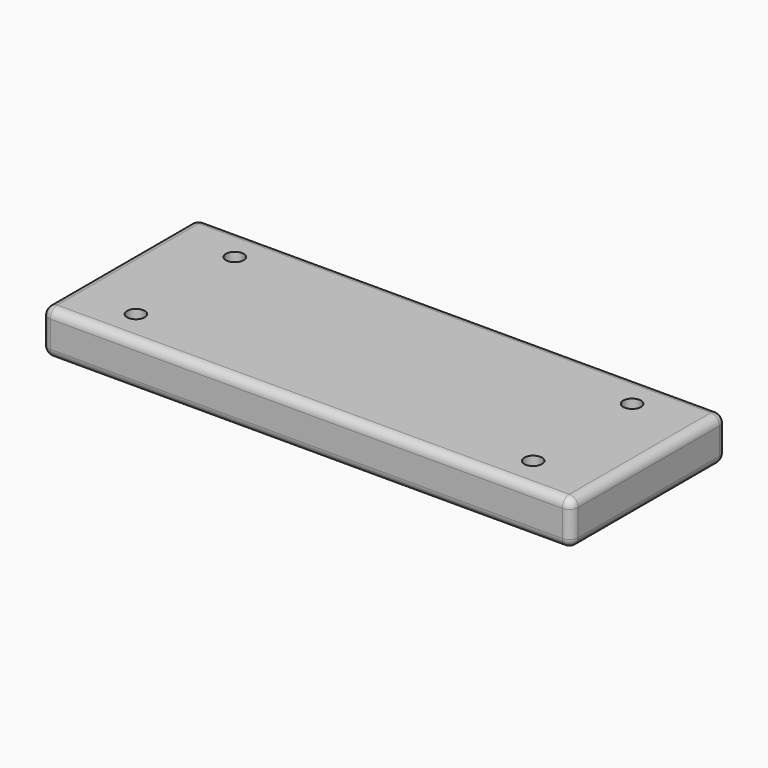
from build123d import *

# Parameters (mm, degrees)
F0_W     = 300
F0_H     = 110
F1_DEPTH = 25
F2_R     = 5
F3_DEPTH = 25.001
F4_R     = 5


with BuildPart() as f1:
    # F0 (on Top) → F1 (new body)
    with BuildSketch(Plane.XY):
        Rectangle(F0_W, F0_H)
    extrude(amount=F1_DEPTH)

    # F2 (on face) → F3 (cut, through all)
    with BuildSketch(Plane.XY.offset(25)):
        with Locations((-112.5, 35)):
            Circle(F2_R)
        with Locations((-112.5, -35)):
            Circle(F2_R)
        with Locations((112.5, -35)):
            Circle(F2_R)
        with Locations((112.5, 35)):
            Circle(F2_R)
    extrude(amount=-F3_DEPTH, mode=Mode.SUBTRACT)

    # F4
    f4_edges = [f1.edges().sort_by_distance(p)[0] for p in [
        (0, 55, 25),
        (-150, 0, 25),
        (0, -55, 25),
        (150, 0, 25),
        (150, 0, 0),
        (0, 55, 0),
        (-150, 0, 0),
        (-150, -55, 12.5),
        (-150, 55, 12.5),
        (150, 55, 12.5),
        (150, -55, 12.5),
        (0, -55, 0),
    ]]
    fillet(f4_edges, radius=F4_R)


solid = f1.part
